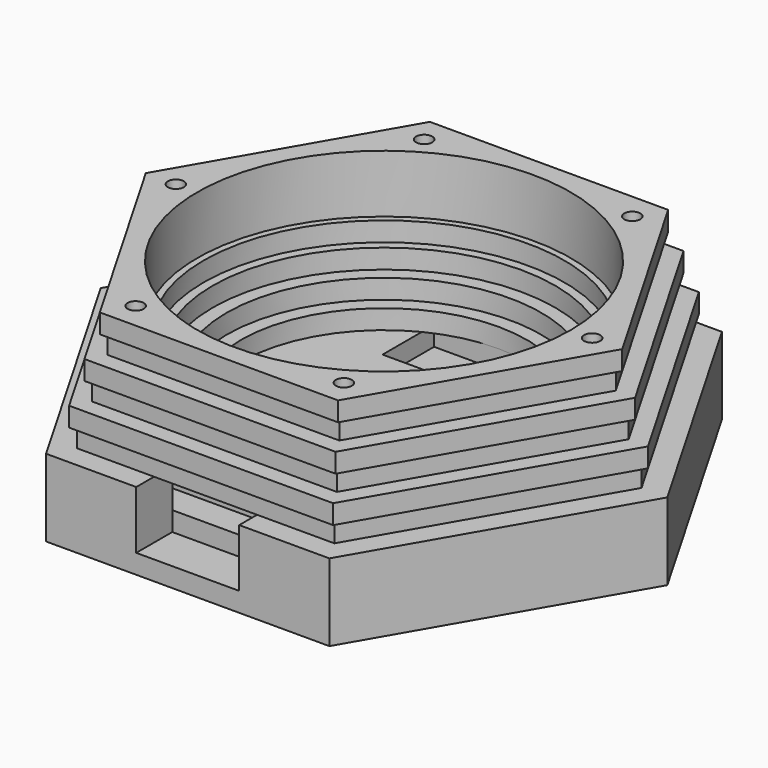
from build123d import *

# Parameters (mm, degrees)
PAD_DEPTH          = 9
SKETCH001_W        = 26.1
SKETCH001_H        = 34.4
POCKET_DEPTH       = 3
SKETCH002_R        = 22.22
PAD001_DEPTH       = 3
SKETCH003_R        = 24.44
PAD002_DEPTH       = 3
SKETCH004_R        = 26.6
PAD003_DEPTH       = 3
SKETCH005_R        = 28
PAD004_DEPTH       = 3
SKETCH006_R        = 29
PAD005_DEPTH       = 3
SKETCH007_R        = 29
PAD006_DEPTH       = 3
SKETCH008_R        = 29
PAD007_DEPTH       = 3
SKETCH009_W        = 17
SKETCH009_H        = 24
POCKET001_DEPTH    = 3
SKETCH010_W        = 16
SKETCH010_H        = 9
POCKET002_DEPTH    = 7
SKETCH011_W        = 20
SKETCH011_H        = 10
POCKET003_DEPTH    = 3
SKETCH012_R        = 1.25
POCKET004_DEPTH    = 270.433943
POLARPATTERN_COUNT = 6


with BuildPart() as part:
    # Sketch → Pad (new body)
    with BuildSketch(Plane.XY):
        Polygon((44, 0), (22, 38.105118), (-22, 38.105118), (-44, 0), (-22, -38.105118), (22, -38.105118), align=None)
    extrude(amount=PAD_DEPTH)

    # Sketch001 (on Face8 of Pad) → Pocket (cut)
    with BuildSketch(Plane.XY.offset(9)):
        with Locations((0, -13.905118)):
            Rectangle(SKETCH001_W, SKETCH001_H)
    extrude(amount=-POCKET_DEPTH, mode=Mode.SUBTRACT)

    # Sketch002 (on Face5 of Pocket) → Pad001 (join)
    with BuildSketch(Plane.XY.offset(9)):
        Polygon((22, 38.105118), (-22, 38.105118), (-44, 0), (-22, -38.105118), (22, -38.105118), (44, 0), align=None)
        Circle(SKETCH002_R, mode=Mode.SUBTRACT)
    extrude(amount=PAD001_DEPTH)

    # Sketch003 (on Face14 of Pad001) → Pad002 (join)
    with BuildSketch(Plane.XY.offset(12)):
        Polygon((40, 0), (20, 34.641016), (-20, 34.641016), (-40, 0), (-20, -34.641016), (20, -34.641016), align=None)
        Circle(SKETCH003_R, mode=Mode.SUBTRACT)
    extrude(amount=PAD002_DEPTH)

    # Sketch004 (on Face21 of Pad002) → Pad003 (join)
    with BuildSketch(Plane.XY.offset(15)):
        Polygon((41, 0), (20.5, 35.507042), (-20.5, 35.507042), (-41, 0), (-20.5, -35.507042), (20.5, -35.507042), align=None)
        Circle(SKETCH004_R, mode=Mode.SUBTRACT)
    extrude(amount=PAD003_DEPTH)

    # Sketch005 (on Face28 of Pad003) → Pad004 (join)
    with BuildSketch(Plane.XY.offset(18)):
        Polygon((19, 32.908965), (-19, 32.908965), (-38, 0), (-19, -32.908965), (19, -32.908965), (38, 0), align=None)
        Circle(SKETCH005_R, mode=Mode.SUBTRACT)
    extrude(amount=PAD004_DEPTH)

    # Sketch006 (on Face35 of Pad004) → Pad005 (join)
    with BuildSketch(Plane.XY.offset(21)):
        Polygon((39, 0), (19.5, 33.774991), (-19.5, 33.774991), (-39, 0), (-19.5, -33.774991), (19.5, -33.774991), align=None)
        Circle(SKETCH006_R, mode=Mode.SUBTRACT)
    extrude(amount=PAD005_DEPTH)

    # Sketch007 (on Face42 of Pad005) → Pad006 (join)
    with BuildSketch(Plane.XY.offset(24)):
        Polygon((36, 0), (18, 31.176915), (-18, 31.176915), (-36, 0), (-18, -31.176915), (18, -31.176915), align=None)
        Circle(SKETCH007_R, mode=Mode.SUBTRACT)
    extrude(amount=PAD006_DEPTH)

    # Sketch008 (on Face49 of Pad006) → Pad007 (join)
    with BuildSketch(Plane.XY.offset(27)):
        Polygon((37, 0), (18.5, 32.04294), (-18.5, 32.04294), (-37, 0), (-18.5, -32.04294), (18.5, -32.04294), align=None)
        Circle(SKETCH008_R, mode=Mode.SUBTRACT)
    extrude(amount=PAD007_DEPTH)

    # Sketch009 (on Face74 of Pad007) → Pocket001 (cut)
    with BuildSketch(Plane.XY.offset(6)):
        with Locations((0, -8.705118)):
            Rectangle(SKETCH009_W, SKETCH009_H)
    extrude(amount=-POCKET001_DEPTH, mode=Mode.SUBTRACT)

    # Sketch010 (on Face12 of Pocket001) → Pocket002 (cut)
    with BuildSketch(Plane.XZ.offset(38.105118)):
        with Locations((0, 7.5)):
            Rectangle(SKETCH010_W, SKETCH010_H)
    extrude(amount=-POCKET002_DEPTH, mode=Mode.SUBTRACT)

    # Sketch011 (on Face40 of Pocket002) → Pocket003 (cut)
    with BuildSketch(Plane.XY.offset(9)):
        with Locations((0, 17.22)):
            Rectangle(SKETCH011_W, SKETCH011_H)
    extrude(amount=-POCKET003_DEPTH, mode=Mode.SUBTRACT)

    # Sketch012 (on Face93 of Pocket003) → Pocket004 (cut, through all)
    with BuildSketch(Plane.XY.offset(30)):
        with Locations((-32.33, 0)):
            Circle(SKETCH012_R)
    pocket004 = extrude(amount=-POCKET004_DEPTH, mode=Mode.SUBTRACT)

    # PolarPattern: Pocket004 ×6 about axis
    polarpattern_axis = Axis((0, 0, 30), (0, 0, 1))
    for i in range(1, POLARPATTERN_COUNT):
        add(pocket004.rotate(polarpattern_axis, i * 360 / POLARPATTERN_COUNT), mode=Mode.SUBTRACT)


solid = part.part
